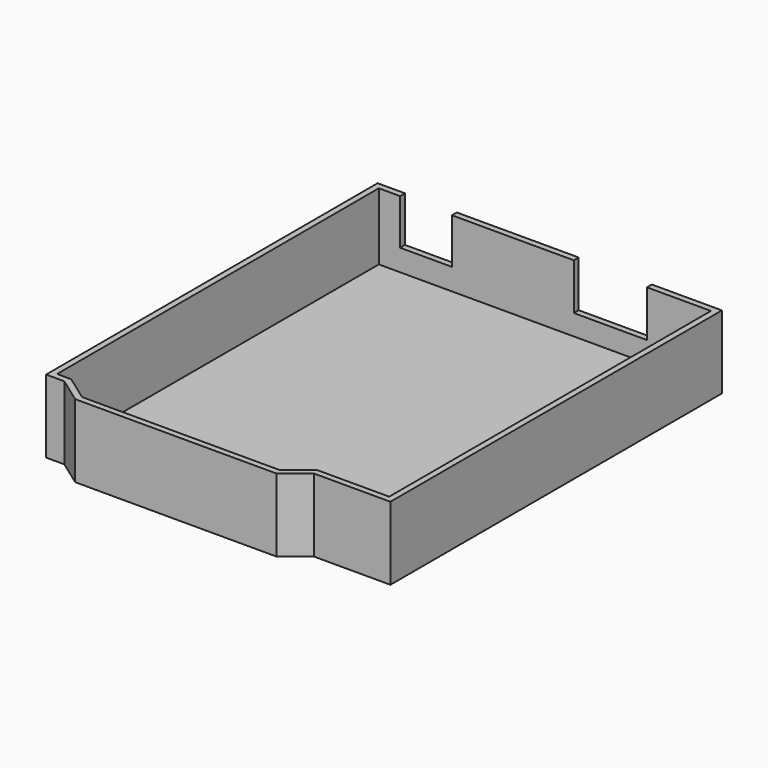
from build123d import *

# Parameters (mm, degrees)
F1_DEPTH = 12
F2_T     = -1
F4_W     = 12
F4_H     = 11
F4_W_2   = 8.5
F5_DEPTH = 5


with BuildPart() as f1:
    # F0 (on Top) → F1 (new body)
    with BuildSketch(Plane.XY):
        Polygon((28.25, 34), (-28.25, 34), (-28.25, -34), (-25.25, -34), (15.75, -34), (28.25, -34), align=None)
        Polygon((15.75, -34), (-25.25, -34), (-21.0784263909, -37), (11.9215736091, -37), align=None)
    extrude(amount=F1_DEPTH)

    # F2
    f2_openings = [f1.faces().sort_by_distance(p)[0] for p in [
        (-0.131058, -0.99532, 12),
    ]]
    offset(amount=F2_T, openings=f2_openings, kind=Kind.INTERSECTION)

    # F4 (on offset) → F5 (cut)
    with BuildSketch(Plane.XZ.offset(-34)):
        with Locations((10.75, 9.8824445456)):
            Rectangle(F4_W, F4_H)
        with Locations((-19.5, 10.0444257557)):
            Rectangle(F4_W_2, F4_H)
    extrude(amount=F5_DEPTH, mode=Mode.SUBTRACT)


solid = f1.part
